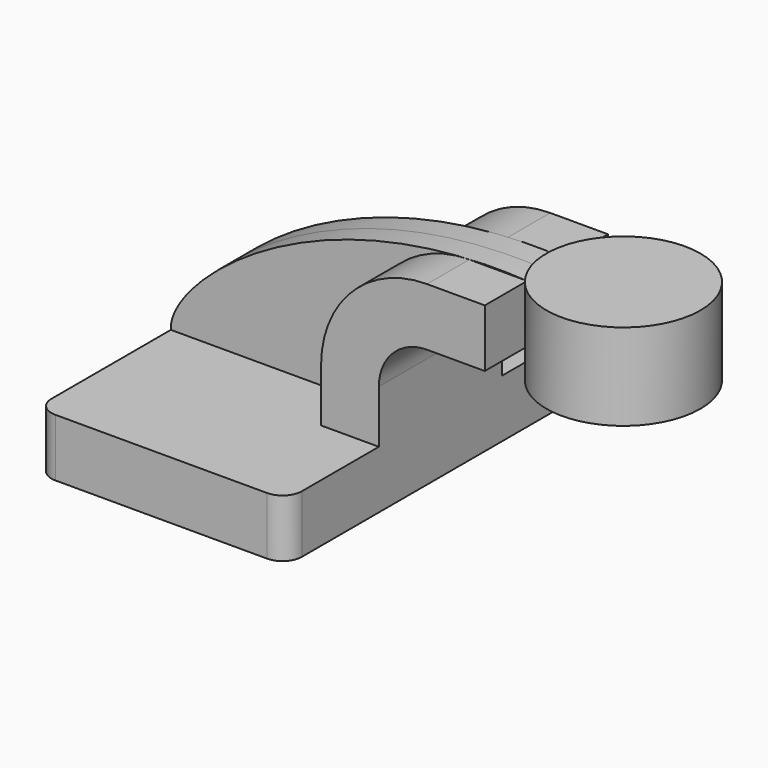
from build123d import *

# Parameters (mm, degrees)
F1_DEPTH = 63.5
F2_DEPTH = 25.4
F3_DEPTH = 7.9375
F5_R     = 6.35


with BuildPart() as f1:
    # F0 (on Front) → F1 (new body, symmetric)
    with BuildSketch(Plane.XZ):
        Polygon((22.225, 9.525), (-41.275, 9.525), (-41.275, -9.525), (41.275, -9.525), (41.275, 9.525), align=None)
    extrude(amount=F1_DEPTH, both=True)

    # F0 (on Front) → F2 (join, symmetric)
    with BuildSketch(Plane.XZ):
        with BuildLine():
            Line((22.225, 27.0002), (22.225, 9.525))
            Line((22.225, 9.525), (41.275, 9.525))
            Line((41.275, 9.525), (41.275, 27.0002))
            ThreePointArc((41.275, 27.0002), (45.92468, 38.22552), (57.15, 42.8752))
            Line((57.15, 42.8752), (76.2, 42.8752))
            Line((76.2, 42.8752), (76.2, 61.9252))
            Line((76.2, 61.9252), (57.15, 61.9252))
            ThreePointArc((57.15, 61.9252), (32.454296, 51.695904), (22.225, 27.0002))
        make_face()
    extrude(amount=F2_DEPTH, both=True)

    # F0 (on Front) → F3 (join, symmetric)
    with BuildSketch(Plane.XZ):
        with BuildLine():
            add(Edge.make_bspline(
                [(-41.275, 9.525), (-42.360839, 24.209788), (4.186844, 66.234112), (76.2, 61.9252)],
                knots=[0, 0, 0, 0, 128.631865, 128.631865, 128.631865, 128.631865], degree=3))
            Line((-41.275, 9.525), (22.225, 9.525))
            Line((22.225, 9.525), (22.225, 27.0002))
            ThreePointArc((22.225, 27.0002), (32.454296, 51.695904), (57.15, 61.9252))
            Line((57.15, 61.9252), (76.2, 61.9252))
        make_face()
    extrude(amount=F3_DEPTH, both=True)

    # F0 (on Front) → F4 (revolve)
    with BuildSketch(Plane.XZ):
        Polygon((101.6, 66.675), (101.6, 61.9252), (101.6, 42.8752), (101.6, 38.1), (127, 38.1), (127, 66.675), align=None)
    revolve(axis=Axis((101.6, 0, 52.3875), (0, 0, 1)))

    # F5
    f5_edges = [f1.edges().sort_by_distance(p)[0] for p in [
        (41.275, -63.5, 0),
        (-41.275, -63.5, 0),
        (-41.275, 63.5, 0),
        (41.275, 63.5, 0),
    ]]
    fillet(f5_edges, radius=F5_R)


solid = f1.part
